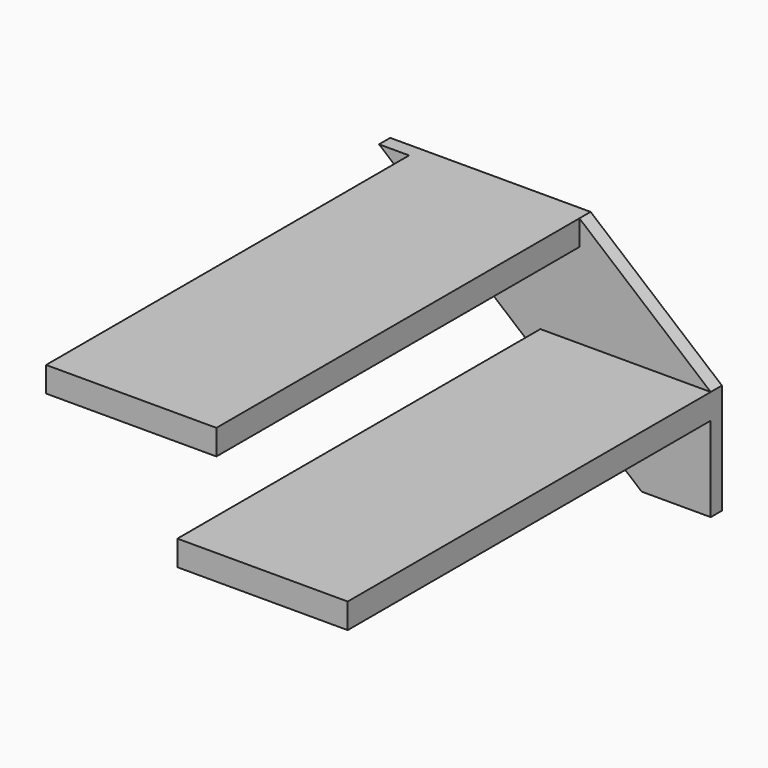
from build123d import *

# Parameters (mm, degrees)
F0_W     = 34
F0_H     = 45
F0_W_2   = 270.0526856103
F0_W_3   = 304.0526856103
F0_H_2   = 151.6930085641
F1_DEPTH = 25
F2_DEPTH = 810


with BuildPart() as f1:
    # F0 (on Front) → F1 (new body)
    with BuildSketch(Plane.XZ):
        Polygon((-304.0526856103, 348.3860171282), (-123.2719976826, 196.6930085641), (-69.6430860159, 196.6930085641), (200.4095995944, 196.6930085641), (200.4095995944, 225.2223960241), (53.6289116667, 348.3860171282), (0, 348.3860171282), align=None)
        Polygon((-357.681597277, 393.3860171282), (-304.0526856103, 348.3860171282), (-304.0526856103, 393.3860171282), align=None)
        Polygon((0, 393.3860171282), (0, 348.3860171282), (53.6289116667, 348.3860171282), align=None)
        with Locations((217.4095995944, 174.1930085641)):
            Rectangle(F0_W, F0_H)
        Polygon((-69.6430860159, 151.6930085641), (111.1376019118, 0), (200.4095995944, 0), (200.4095995944, 151.6930085641), align=None)
        with Locations((65.3832567893, 174.1930085641)):
            Rectangle(F0_W_2, F0_H)
        Polygon((-123.2719976826, 196.6930085641), (-69.6430860159, 151.6930085641), (-69.6430860159, 196.6930085641), align=None)
        with Locations((-152.0263428052, 370.8860171282)):
            Rectangle(F0_W_3, F0_H)
        with Locations((217.4095995944, 75.846504282)):
            Rectangle(F0_W, F0_H_2)
        Polygon((200.4095995944, 225.2223960241), (200.4095995944, 196.6930085641), (234.4095995944, 196.6930085641), align=None)
    extrude(amount=-F1_DEPTH)

    # F0 (on Front) → F2 (join)
    with BuildSketch(Plane.XZ):
        with Locations((-152.0263428052, 370.8860171282)):
            Rectangle(F0_W_3, F0_H)
        with Locations((65.3832567893, 174.1930085641)):
            Rectangle(F0_W_2, F0_H)
        with Locations((217.4095995944, 174.1930085641)):
            Rectangle(F0_W, F0_H)
    extrude(amount=F2_DEPTH)


solid = f1.part
